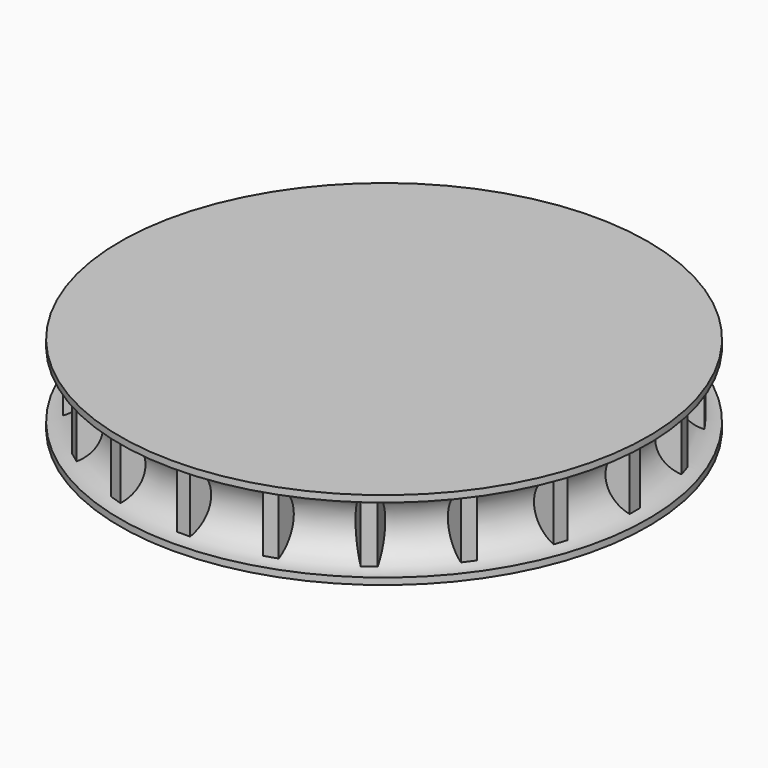
from build123d import *

# Parameters (mm, degrees)
F3_DEPTH = 8
F5_DEPTH = 6


with BuildPart() as f1:
    # F0 (on Right) → F1 (revolve)
    with BuildSketch(Plane.YZ):
        with BuildLine():
            Line((-12, 0), (-12, -4))
            Line((-12, -4), (0, -4))
            Line((0, -4), (0, 6))
            Line((0, 6), (-20, 6))
            Line((-20, 6), (-20, 5.5))
            ThreePointArc((-20, 5.5), (-17.5, 3), (-20, 0.5))
            Line((-20, 0.5), (-20, 0))
            Line((-20, 0), (-12, 0))
        make_face()
    revolve(axis=Axis((0, 0, 1), (0, 0, -1)))

    # F2 (on face) → F3 (cut)
    with BuildSketch(Plane(origin=(0, 0, -4), x_dir=(1, 0, 0), z_dir=(0, 0, -1))):
        with BuildLine():
            ThreePointArc((-1.5, -1.609348), (0.877496, -2.017424), (2.2, 0))
            ThreePointArc((2.2, 0), (0.877496, 2.017424), (-1.5, 1.609348))
            Line((-1.5, 1.609348), (-1.5, -1.609348))
        make_face()
    extrude(amount=-F3_DEPTH, mode=Mode.SUBTRACT)

    # F4 (on face) → F5 (join)
    with BuildSketch(Plane.XY.offset(6)):
        Polygon((-17, 0), (-17, 1), (-19, 0.5), (-19, -0.5), (-17, -1), align=None)
        Polygon((-16.476978, -4.302232), (-18.224582, -5.395795), (-17.915565, -6.346851), (-15.858944, -6.204345), (-16.167961, -5.253289), align=None)
        Polygon((-14.341074, -9.183332), (-15.665216, -10.763411), (-15.07743, -11.572428), (-13.165504, -10.801366), (-13.753289, -9.992349), align=None)
        Polygon((-10.801366, -13.165504), (-11.572428, -15.07743), (-10.763411, -15.665216), (-9.183332, -14.341074), (-9.992349, -13.753289), align=None)
        Polygon((-6.204345, -15.858944), (-6.346851, -17.915565), (-5.395795, -18.224582), (-4.302232, -16.476978), (-5.253289, -16.167961), align=None)
        Polygon((-1, -17), (-0.5, -19), (0.5, -19), (1, -17), (0, -17), align=None)
        Polygon((4.302232, -16.476978), (5.395795, -18.224582), (6.346851, -17.915565), (6.204345, -15.858944), (5.253289, -16.167961), align=None)
        Polygon((9.183332, -14.341074), (10.763411, -15.665216), (11.572428, -15.07743), (10.801366, -13.165504), (9.992349, -13.753289), align=None)
        Polygon((13.165504, -10.801366), (15.07743, -11.572428), (15.665216, -10.763411), (14.341074, -9.183332), (13.753289, -9.992349), align=None)
        Polygon((15.858944, -6.204345), (17.915565, -6.346851), (18.224582, -5.395795), (16.476978, -4.302232), (16.167961, -5.253289), align=None)
        Polygon((17, -1), (19, -0.5), (19, 0.5), (17, 1), (17, 0), align=None)
        Polygon((16.476978, 4.302232), (18.224582, 5.395795), (17.915565, 6.346851), (15.858944, 6.204345), (16.167961, 5.253289), align=None)
        Polygon((14.341074, 9.183332), (15.665216, 10.763411), (15.07743, 11.572428), (13.165504, 10.801366), (13.753289, 9.992349), align=None)
        Polygon((10.801366, 13.165504), (11.572428, 15.07743), (10.763411, 15.665216), (9.183332, 14.341074), (9.992349, 13.753289), align=None)
        Polygon((6.204345, 15.858944), (6.346851, 17.915565), (5.395795, 18.224582), (4.302232, 16.476978), (5.253289, 16.167961), align=None)
        Polygon((1, 17), (0.5, 19), (-0.5, 19), (-1, 17), (0, 17), align=None)
        Polygon((-4.302232, 16.476978), (-5.395795, 18.224582), (-6.346851, 17.915565), (-6.204345, 15.858944), (-5.253289, 16.167961), align=None)
        Polygon((-9.183332, 14.341074), (-10.763411, 15.665216), (-11.572428, 15.07743), (-10.801366, 13.165504), (-9.992349, 13.753289), align=None)
        Polygon((-13.165504, 10.801366), (-15.07743, 11.572428), (-15.665216, 10.763411), (-14.341074, 9.183332), (-13.753289, 9.992349), align=None)
        Polygon((-15.858944, 6.204345), (-17.915565, 6.346851), (-18.224582, 5.395795), (-16.476978, 4.302232), (-16.167961, 5.253289), align=None)
    extrude(amount=-F5_DEPTH)


solid = f1.part
